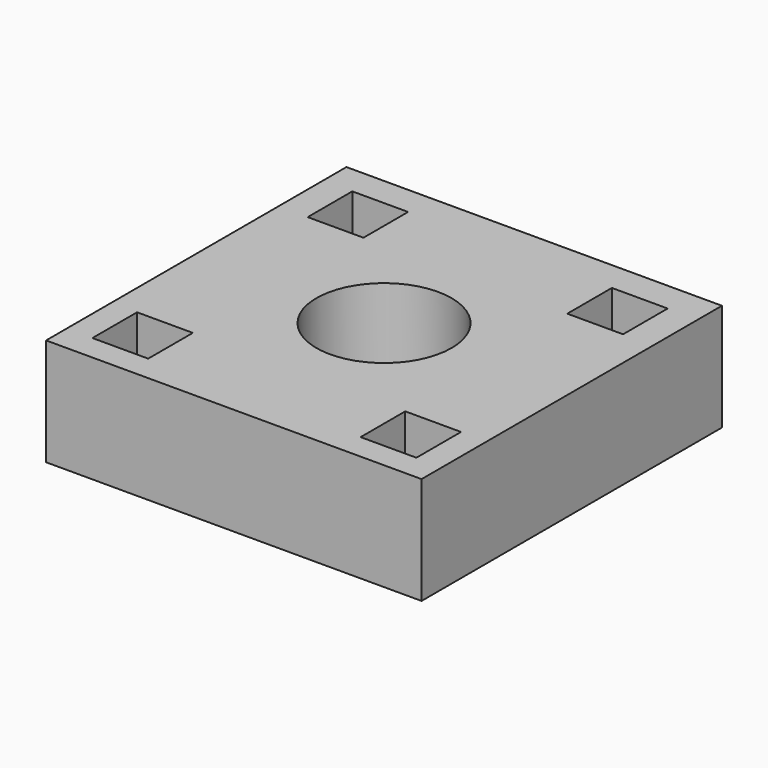
from build123d import *

# Parameters (mm, degrees)
F1_DEPTH = 12.7
F2_R     = 8.001
F2_W     = 6.604
F2_H     = 6.604
F3_DEPTH = 12.7


with BuildPart() as f1:
    # F0 (on Top) → F1 (new body)
    with BuildSketch(Plane.XY):
        Polygon((22.225, 37.822188), (-22.225, 37.822188), (-22.225, -6.627812), (-5.278436, -6.627812), (12.779376, -6.627812), (22.225, -6.627812), align=None)
    extrude(amount=F1_DEPTH)

    # F2 (on face) → F3 (cut)
    with BuildSketch(Plane.XY.offset(12.7)):
        with Locations((0, 15.597188)):
            Circle(F2_R)
        with Locations((-15.459939, 31.057127)):
            Rectangle(F2_W, F2_H)
        with Locations((15.355254, 30.952442)):
            Rectangle(F2_W, F2_H)
        with Locations((15.875, -0.277812)):
            Rectangle(F2_W, F2_H)
        with Locations((-15.875, -0.277812)):
            Rectangle(F2_W, F2_H)
    extrude(amount=-F3_DEPTH, mode=Mode.SUBTRACT)


solid = f1.part
